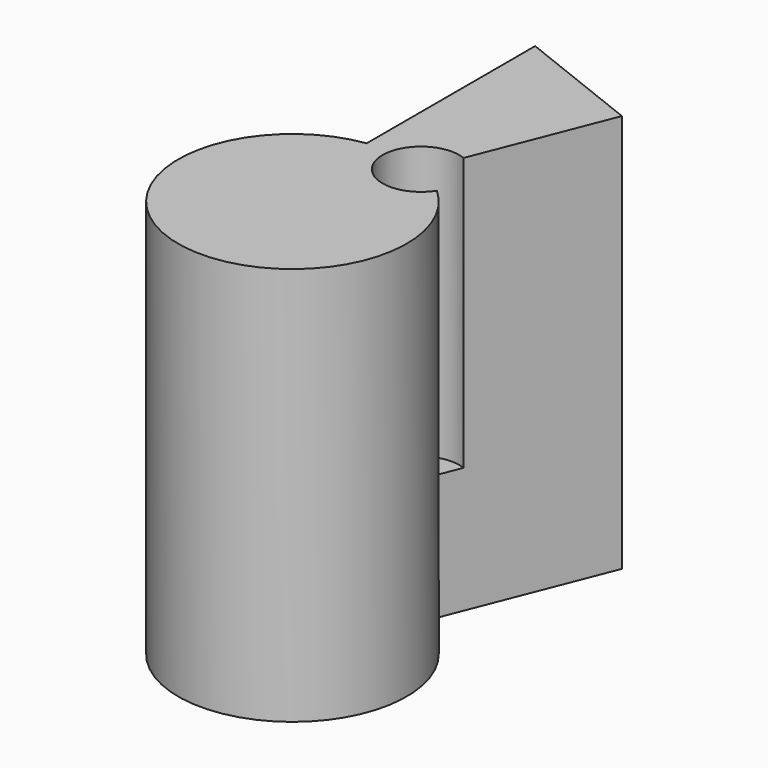
from build123d import *

# Parameters (mm, degrees)
F1_DEPTH = 86.106
F3_DEPTH = 58.928


with BuildPart() as f1:
    # F0 (on Top) → F1 (new body)
    with BuildSketch(Plane.XY):
        with BuildLine():
            Line((-119.3899347218, 81.5751131241), (-119.3899347218, 36.099622529))
            ThreePointArc((-119.3899347218, 36.099622529), (-119.0183715142, -12.8191604773), (-106.3290840641, 34.4266581107))
            Line((-106.3290840641, 34.4266581107), (-91.9901505113, 70.7625672221))
            Line((-91.9901505113, 70.7625672221), (-119.3899347218, 81.5751131241))
        make_face()
    extrude(amount=F1_DEPTH)

    # F2 (on face) → F3 (cut)
    with BuildSketch(Plane.XY.offset(86.106)):
        with BuildLine():
            Line((-106.3290840641, 34.4266581107), (-103.2862087041, 42.1375274103))
            ThreePointArc((-103.2862087041, 42.1375274103), (-114.2122343511, 31.8629620744), (-99.3326582188, 29.9806912638))
            ThreePointArc((-99.3326582188, 29.9806912638), (-102.6429075582, 32.4994648534), (-106.3290840641, 34.4266581107))
        make_face()
    extrude(amount=-F3_DEPTH, mode=Mode.SUBTRACT)


solid = f1.part
